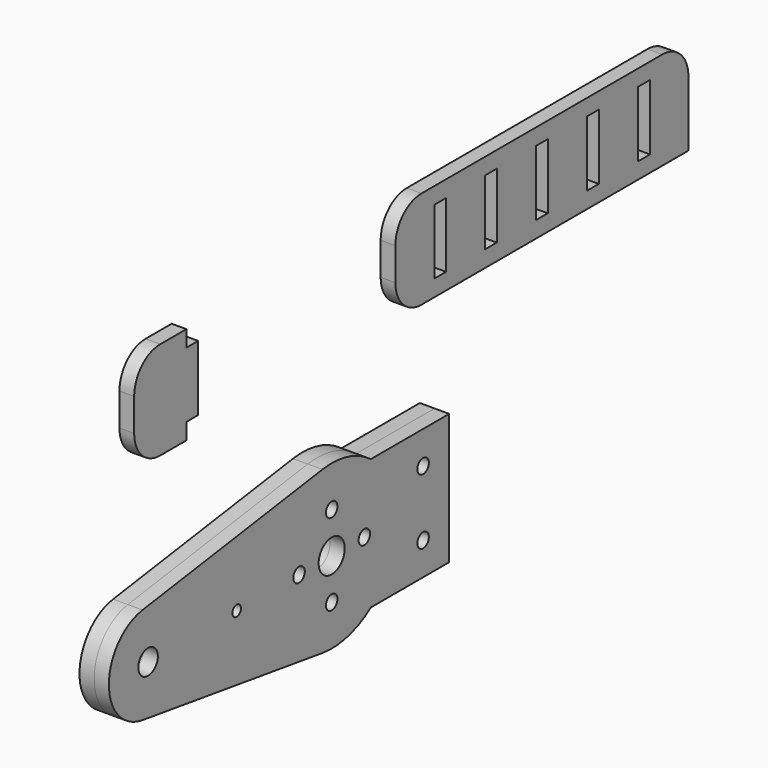
from build123d import *

# Parameters (mm, degrees)
F0_R        = 3.75
F0_R_2      = 5
F1_DEPTH    = 4.5
F2_D        = 4.4
F2_DEPTH    = 20
F2_TIP      = 1.3218933619
F3_W        = 4.5
F3_H        = 20
F4_DEPTH    = 4.5
F3_W_2      = 112.2
F3_H_2      = 30
F3_W_3      = 4.45
F3_H_3      = 19.95
F3_W_4      = 4.4
F3_H_4      = 19.9
F3_W_5      = 4.55
F3_H_5      = 20.05
F3_W_6      = 4.6
F3_H_6      = 20.1
F5_R        = 10
F5_2_R      = 10
F6_R        = 2.2
F6_R_2      = 3.75
F6_R_3      = 5
F7_DEPTH    = 4.5
F8_D        = 3.3
F8_DEPTH    = 20
F8_TIP      = 0.9914200214
F8_2_D      = 3.3
F8_2_DEPTH  = 20
F8_2_TIP    = 0.9914200214
F10_D       = 4.4
F10_DEPTH   = 20
F10_TIP     = 1.3218933619
F10_2_D     = 4.4
F10_2_DEPTH = 20
F10_2_TIP   = 1.3218933619


with BuildPart() as f1:
    # F0 (on Right) → F1 (new body)
    with BuildSketch(Plane.YZ):
        with BuildLine():
            ThreePointArc((-72.43371266, -14.8474667969), (-60.476703453, -11.3359095334), (-55.3, 0))
            ThreePointArc((-55.3, 0), (-60.476703453, 11.3359095334), (-72.43371266, 14.8474667969))
            ThreePointArc((-72.43371266, 14.8474667969), (-85.3, 0), (-72.43371266, -14.8474667969))
        make_face()
        with Locations((-70.3, 0)):
            Circle(F0_R, mode=Mode.SUBTRACT)
        with BuildLine():
            ThreePointArc((-72.43371266, 14.8474667969), (-60.476703453, 11.3359095334), (-55.3, 0))
            ThreePointArc((-55.3, 0), (-60.476703453, -11.3359095334), (-72.43371266, -14.8474667969))
            Line((-72.43371266, -14.8474667969), (-3.5561877667, -24.7457779948))
            ThreePointArc((-3.5561877667, -24.7457779948), (-25, 0), (-3.5561877667, 24.7457779948))
            Line((-3.5561877667, 24.7457779948), (-72.43371266, 14.8474667969))
        make_face()
        with BuildLine():
            ThreePointArc((15, 20), (6.1944177936, 24.2204291498), (-3.5561877667, 24.7457779948))
            ThreePointArc((-3.5561877667, 24.7457779948), (-25, 0), (-3.5561877667, -24.7457779948))
            ThreePointArc((-3.5561877667, -24.7457779948), (6.1944177936, -24.2204291498), (15, -20))
            ThreePointArc((15, -20), (22.360679775, -11.1803398875), (25, 0))
            ThreePointArc((25, 0), (22.360679775, 11.1803398875), (15, 20))
        make_face()
        Circle(F0_R_2, mode=Mode.SUBTRACT)
        with BuildLine():
            Line((45, 20), (15, 20))
            ThreePointArc((15, 20), (22.360679775, 11.1803398875), (25, 0))
            ThreePointArc((25, 0), (22.360679775, -11.1803398875), (15, -20))
            Line((15, -20), (45, -20))
            Line((45, -20), (45, 20))
        make_face()
    extrude(amount=F1_DEPTH)

    # F2
    with Locations(Plane(origin=(0, 0, 0), x_dir=(0, 1, 0), z_dir=(-1, 0, 0))):
        with Locations((-12.5, 0), (0, -12.5), (0, 12.5), (12.5, 0)):
            Hole(F2_D / 2, depth=F2_DEPTH)
            with Locations((0, 0, -(F2_DEPTH + F2_TIP / 2))):  # 118° drill point
                Cone(0, F2_D / 2, F2_TIP, mode=Mode.SUBTRACT)

    # F8
    with Locations(Plane(origin=(0, 0, 0), x_dir=(0, 1, 0), z_dir=(-1, 0, 0))):
        with Locations((-36.3848023117, 0)):
            Hole(F8_D / 2, depth=F8_DEPTH)
            with Locations((0, 0, -(F8_DEPTH + F8_TIP / 2))):  # 118° drill point
                Cone(0, F8_D / 2, F8_TIP, mode=Mode.SUBTRACT)

    # F10
    with Locations(Plane.YZ.offset(9)):
        with Locations((35, -10), (35, 10)):
            Hole(F10_D / 2, depth=F10_DEPTH)
            with Locations((0, 0, -(F10_DEPTH + F10_TIP / 2))):  # 118° drill point
                Cone(0, F10_D / 2, F10_TIP, mode=Mode.SUBTRACT)


with BuildPart() as f4:
    # F3 (on Right) → F4 (new body)
    with BuildSketch(Plane.YZ):
        Polygon((-70, 80), (-70, 50), (-50, 50), (-50, 55), (-50, 75), (-50, 80), align=None)
        with Locations((-47.75, 65)):
            Rectangle(F3_W, F3_H)
    extrude(amount=F4_DEPTH)

    # F5
    f5_edges = [f4.edges().sort_by_distance(p)[0] for p in [
        (2.25, -70, 50),
        (2.25, -70, 80),
    ]]
    fillet(f5_edges, radius=F5_R)


with BuildPart() as f4b:
    # F3 (on Right) → F4, piece 2 (new body)
    with BuildSketch(Plane.YZ):
        with Locations((86.1, 65)):
            Rectangle(F3_W_2, F3_H_2)
        with Locations((66.625, 65)):
            Rectangle(F3_W_3, F3_H_3, mode=Mode.SUBTRACT)
        with Locations((47.2, 65)):
            Rectangle(F3_W_4, F3_H_4, mode=Mode.SUBTRACT)
        with Locations((86.1, 65)):
            Rectangle(F3_W, F3_H, mode=Mode.SUBTRACT)
        with Locations((105.625, 65)):
            Rectangle(F3_W_5, F3_H_5, mode=Mode.SUBTRACT)
        with Locations((125.2, 65)):
            Rectangle(F3_W_6, F3_H_6, mode=Mode.SUBTRACT)
    extrude(amount=F4_DEPTH)

    # F5#2
    f5_2_edges = [f4b.edges().sort_by_distance(p)[0] for p in [
        (2.25, 30, 80),
        (2.25, 30, 50),
        (2.25, 142.2, 80),
    ]]
    fillet(f5_2_edges, radius=F5_2_R)


with BuildPart() as f7:
    # F6 (on face) → F7 (new body)
    with BuildSketch(Plane.YZ.offset(4.5)):
        with BuildLine():
            Line((45, 20), (15, 20))
            ThreePointArc((15, 20), (6.1944177936, 24.2204291498), (-3.5561877667, 24.7457779948))
            Line((-3.5561877667, 24.7457779948), (-72.43371266, 14.8474667969))
            ThreePointArc((-72.43371266, 14.8474667969), (-85.3, 0), (-72.43371266, -14.8474667969))
            Line((-72.43371266, -14.8474667969), (-3.5561877667, -24.7457779948))
            ThreePointArc((-3.5561877667, -24.7457779948), (6.1944177936, -24.2204291498), (15, -20))
            Line((15, -20), (45, -20))
            Line((45, -20), (45, 20))
        make_face()
        with Locations((0, -12.5)):
            Circle(F6_R, mode=Mode.SUBTRACT)
        with Locations((-70.3, 0)):
            Circle(F6_R_2, mode=Mode.SUBTRACT)
        with Locations((-12.5, 0)):
            Circle(F6_R, mode=Mode.SUBTRACT)
        Circle(F6_R_3, mode=Mode.SUBTRACT)
        with Locations((12.5, 0)):
            Circle(F6_R, mode=Mode.SUBTRACT)
        with Locations((0, 12.5)):
            Circle(F6_R, mode=Mode.SUBTRACT)
    extrude(amount=F7_DEPTH)

    # F8#2
    with Locations(Plane(origin=(0, 0, 0), x_dir=(0, 1, 0), z_dir=(-1, 0, 0))):
        with Locations((-36.3848023117, 0)):
            Hole(F8_2_D / 2, depth=F8_2_DEPTH)
            with Locations((0, 0, -(F8_2_DEPTH + F8_2_TIP / 2))):  # 118° drill point
                Cone(0, F8_2_D / 2, F8_2_TIP, mode=Mode.SUBTRACT)

    # F10#2
    with Locations(Plane.YZ.offset(9)):
        with Locations((35, -10), (35, 10)):
            Hole(F10_2_D / 2, depth=F10_2_DEPTH)
            with Locations((0, 0, -(F10_2_DEPTH + F10_2_TIP / 2))):  # 118° drill point
                Cone(0, F10_2_D / 2, F10_2_TIP, mode=Mode.SUBTRACT)


solid = Compound([f1.part, f4.part, f4b.part, f7.part])
